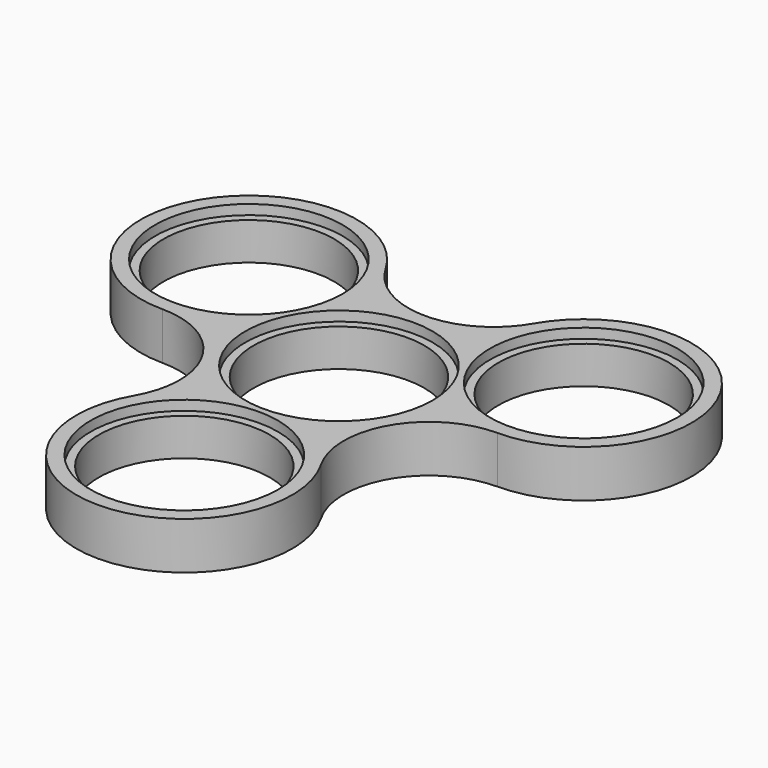
from build123d import *

# Parameters (mm, degrees)
F0_R     = 14.351
F1_DEPTH = 7.9502
F2_R     = 15.748
F2_R_2   = 14.351
F3_DEPTH = 1.651
F4_DEPTH = 1.651
F5_DEPTH = 1.651
F6_DEPTH = 1.651


with BuildPart() as f1:
    # F0 (on Top) → F1 (new body)
    with BuildSketch(Plane.XY):
        with BuildLine():
            ThreePointArc((12.428331, 25.3365), (0, 18.161), (-12.428331, 25.3365))
            ThreePointArc((-12.428331, 25.3365), (-43.884105, 25.3365), (-28.156218, -1.905))
            ThreePointArc((-28.156218, -1.905), (-15.727887, -9.0805), (-15.727887, -23.4315))
            ThreePointArc((-15.727887, -23.4315), (0, -50.673), (15.727887, -23.4315))
            ThreePointArc((15.727887, -23.4315), (15.727887, -9.0805), (28.156218, -1.905))
            ThreePointArc((28.156218, -1.905), (43.884105, 25.3365), (12.428331, 25.3365))
        make_face()
        with Locations((0, -32.512)):
            Circle(F0_R, mode=Mode.SUBTRACT)
        Circle(F0_R, mode=Mode.SUBTRACT)
        with Locations((-28.156218, 16.256)):
            Circle(F0_R, mode=Mode.SUBTRACT)
        with Locations((28.156218, 16.256)):
            Circle(F0_R, mode=Mode.SUBTRACT)
    extrude(amount=F1_DEPTH)

    # F2 (on face) → F3 (cut)
    with BuildSketch(Plane.XY.offset(7.9502)):
        with Locations((-28.156218, 16.256)):
            Circle(F2_R)
        with Locations((-28.156218, 16.256)):
            Circle(F2_R_2, mode=Mode.SUBTRACT)
    extrude(amount=-F3_DEPTH, mode=Mode.SUBTRACT)

    # F2 (on face) → F4 (cut)
    with BuildSketch(Plane.XY.offset(7.9502)):
        with Locations((28.156218, 16.256)):
            Circle(F2_R)
        with Locations((28.156218, 16.256)):
            Circle(F2_R_2, mode=Mode.SUBTRACT)
    extrude(amount=-F4_DEPTH, mode=Mode.SUBTRACT)

    # F2 (on face) → F5 (cut)
    with BuildSketch(Plane.XY.offset(7.9502)):
        with Locations((0, -32.512)):
            Circle(F2_R)
        with Locations((0, -32.512)):
            Circle(F2_R_2, mode=Mode.SUBTRACT)
    extrude(amount=-F5_DEPTH, mode=Mode.SUBTRACT)

    # F2 (on face) → F6 (cut)
    with BuildSketch(Plane.XY.offset(7.9502)):
        Circle(F2_R)
        Circle(F2_R_2, mode=Mode.SUBTRACT)
    extrude(amount=-F6_DEPTH, mode=Mode.SUBTRACT)


solid = f1.part
